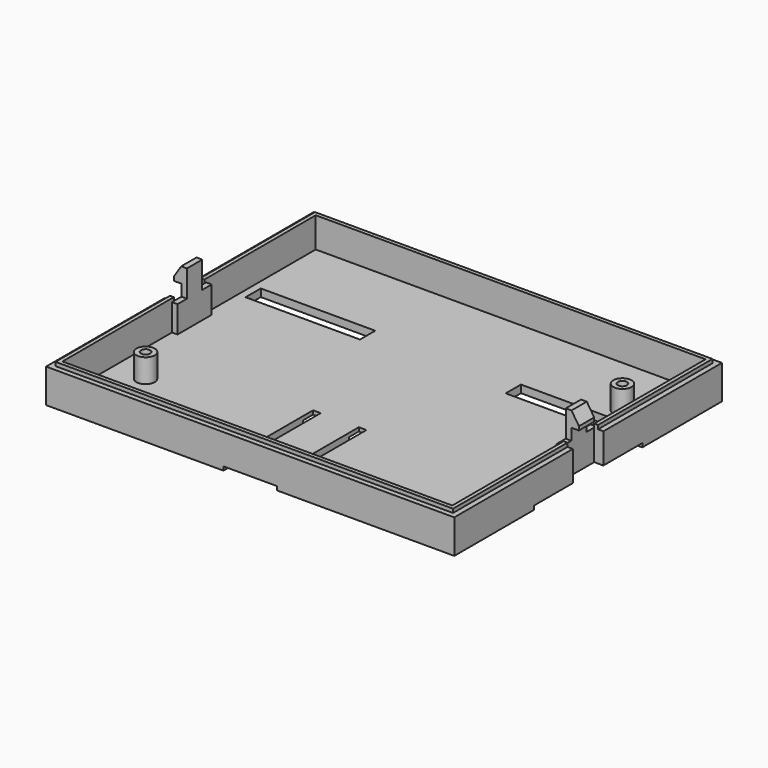
from build123d import *

# Parameters (mm, degrees)
SKETCH_W          = 102.2
SKETCH_H          = 83
SKETCH_W_2        = 30
SKETCH_H_2        = 5
SKETCH_W_3        = 2
SKETCH_H_3        = 25
PAD_DEPTH         = 2
SKETCH001_R       = 2.4
SKETCH001_R_2     = 1.2
PAD001_DEPTH      = 6.2
PAD002_DEPTH      = 6.9
PAD002_DEPTH_BACK = 2
PAD003_DEPTH      = 1
SKETCH004_W       = 1.45
SKETCH004_H       = 11.2
PAD004_DEPTH      = 7
SKETCH005_W       = 1.45
SKETCH005_H       = 5
PAD005_DEPTH      = 3
PAD006_DEPTH      = 5
SKETCH008_W       = 35.5
SKETCH008_H       = 1
POCKET_DEPTH      = 107.001
SKETCH009_W       = 14
SKETCH009_H       = 1
POCKET001_DEPTH   = 4.5


with BuildPart() as part:
    # Sketch → Pad (new body)
    with BuildSketch(Plane.XY):
        Rectangle(SKETCH_W, SKETCH_H)
        with Locations((34.1, 18.5)):
            Rectangle(SKETCH_W_2, SKETCH_H_2, mode=Mode.SUBTRACT)
        with Locations((6, -27)):
            Rectangle(SKETCH_W_3, SKETCH_H_3, mode=Mode.SUBTRACT)
        with Locations((-34.1, 18.5)):
            Rectangle(SKETCH_W_2, SKETCH_H_2, mode=Mode.SUBTRACT)
        with Locations((-6, -27)):
            Rectangle(SKETCH_W_3, SKETCH_H_3, mode=Mode.SUBTRACT)
    extrude(amount=PAD_DEPTH)

    # Sketch001 (on Face22 of Pad) → Pad001 (join)
    with BuildSketch(Plane.XY.offset(2)):
        with Locations((-42.5, -25)):
            Circle(SKETCH001_R)
        with Locations((-42.5, -25)):
            Circle(SKETCH001_R_2, mode=Mode.SUBTRACT)
        with Locations((42.5, 25)):
            Circle(SKETCH001_R)
        with Locations((42.5, 25)):
            Circle(SKETCH001_R_2, mode=Mode.SUBTRACT)
    extrude(amount=PAD001_DEPTH)

    # Sketch002 (on Face5 of Pad001) → Pad002 (join, two sides)
    with BuildSketch(Plane.XY.offset(2)) as pad002_sk:
        Polygon((51.1, 5), (53.5, 5), (53.5, 43.85), (-53.5, 43.85), (-53.5, 5), (-51.1, 5), (-51.1, 41.5), (51.1, 41.5), align=None)
        Polygon((51.1, -5), (53.5, -5), (53.5, -43.85), (-53.5, -43.85), (-53.5, -5), (-51.1, -5), (-51.1, -41.5), (51.1, -41.5), align=None)
    extrude(amount=PAD002_DEPTH)
    extrude(pad002_sk.sketch, amount=-PAD002_DEPTH_BACK)

    # Sketch003 (on Face33 of Pad002) → Pad003 (join)
    with BuildSketch(Plane.XY.offset(8.9)):
        Polygon((-52.1, 5), (-51.1, 5), (-51.1, 41.5), (51.1, 41.5), (51.1, 5), (52.1, 5), (52.1, 42.5), (-52.1, 42.5), align=None)
        Polygon((-52.1, -5), (-51.1, -5), (-51.1, -41.5), (51.1, -41.5), (51.1, -5), (52.1, -5), (52.1, -42.5), (-52.1, -42.5), align=None)
    extrude(amount=PAD003_DEPTH)

    # Sketch004 (on Face3 of Pad003) → Pad004 (join)
    with BuildSketch(Plane.XY.offset(2)):
        with Locations((50.375, 0)):
            Rectangle(SKETCH004_W, SKETCH004_H)
        with Locations((-50.375, 0)):
            Rectangle(SKETCH004_W, SKETCH004_H)
    extrude(amount=PAD004_DEPTH)

    # Sketch005 (on Face49 of Pad004) → Pad005 (join)
    with BuildSketch(Plane.XY.offset(9)):
        with Locations((50.375, 0)):
            Rectangle(SKETCH005_W, SKETCH005_H)
        with Locations((-50.375, 0)):
            Rectangle(SKETCH005_W, SKETCH005_H)
    extrude(amount=PAD005_DEPTH)

    # Sketch006 (on Face45 of Pad005) → Pad006 (join)
    with BuildSketch(Plane.XZ.offset(2.5)):
        Polygon((-51.10001, 12), (-53.10001, 12), (-53.10001, 13), (-51.15, 16), (-49.65, 16), (-49.65, 12), align=None)
    pad006 = extrude(amount=-PAD006_DEPTH)

    # Mirrored: Pad006 across YZ
    add(pad006.mirror(Plane.YZ))

    # Sketch008 (on Face47 of Mirrored) → Pocket (cut, through all)
    with BuildSketch(Plane.YZ.offset(53.5)):
        with Locations((0, 0.5)):
            Rectangle(SKETCH008_W, SKETCH008_H)
    extrude(amount=-POCKET_DEPTH, mode=Mode.SUBTRACT)

    # Sketch009 (on Face74 of Pocket) → Pocket001 (cut)
    with BuildSketch(Plane.XZ.offset(43.85)):
        with Locations((0, 0.5)):
            Rectangle(SKETCH009_W, SKETCH009_H)
    extrude(amount=-POCKET001_DEPTH, mode=Mode.SUBTRACT)


solid = part.part
